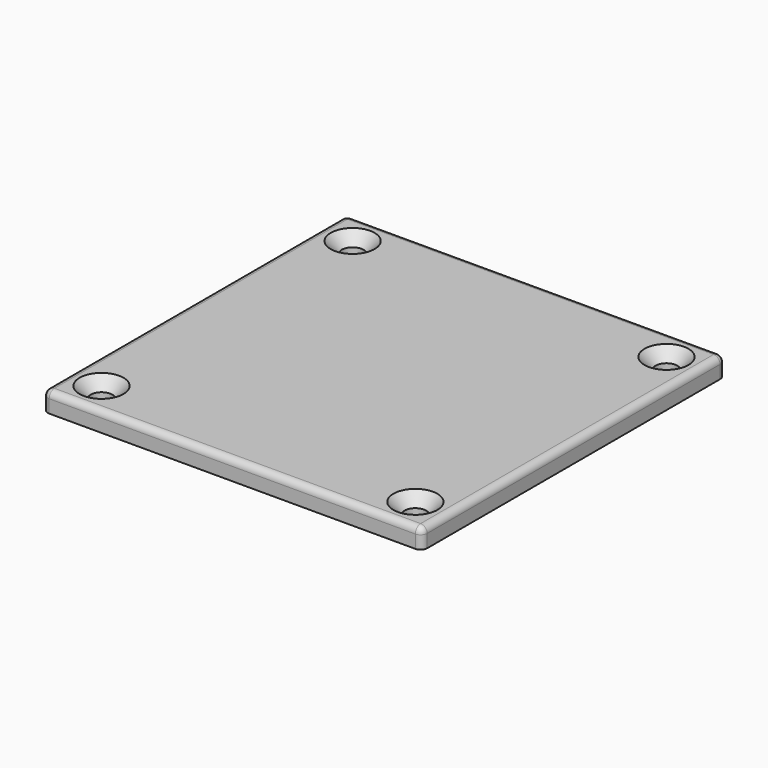
from build123d import *

# Parameters (mm, degrees)
F1_DEPTH       = 3
F2_R           = 1
F4_D           = 3.3
F4_CSINK_D     = 6.72
F4_CSINK_ANGLE = 90


with BuildPart() as f1:
    # F0 (on Top) → F1 (new body)
    with BuildSketch(Plane.XY):
        with BuildLine():
            Line((-28, -29), (28, -29))
            ThreePointArc((28, -29), (28.7071067812, -28.7071067812), (29, -28))
            Line((29, -28), (29, 28))
            ThreePointArc((29, 28), (28.7071067812, 28.7071067812), (28, 29))
            Line((28, 29), (-28, 29))
            ThreePointArc((-28, 29), (-28.7071067812, 28.7071067812), (-29, 28))
            Line((-29, 28), (-29, -28))
            ThreePointArc((-29, -28), (-28.7071067812, -28.7071067812), (-28, -29))
        make_face()
    extrude(amount=F1_DEPTH)

    # F2
    f2_edges = [f1.edges().sort_by_distance(p)[0] for p in [
        (29, 0, 3),
    ]]
    fillet(f2_edges, radius=F2_R)

    # F4 (through all)
    with Locations(Plane.XY.offset(3)):
        with Locations((-24, 24), (24, 24), (-24, -24), (24, -24)):
            CounterSinkHole(F4_D / 2, F4_CSINK_D / 2, counter_sink_angle=F4_CSINK_ANGLE)


solid = f1.part
